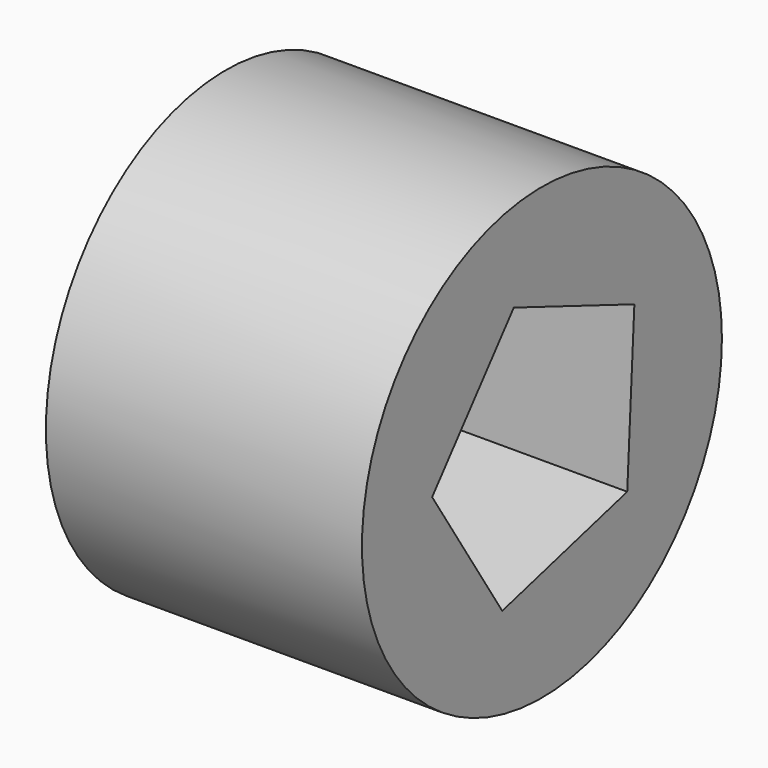
from build123d import *

# Parameters (mm, degrees)
F1_R     = 43.202069
F2_DEPTH = 60.706


with BuildPart() as f2:
    # F1 (on face) → F2 (new body)
    with BuildSketch(Plane.YZ):
        Circle(F1_R)
        Polygon((-6.760658, 25.522216), (22.183912, 14.316566), (20.471069, -16.674092), (-9.532095, -24.621722), (-26.362228, 1.457031), align=None, mode=Mode.SUBTRACT)
    extrude(amount=F2_DEPTH)


solid = f2.part
